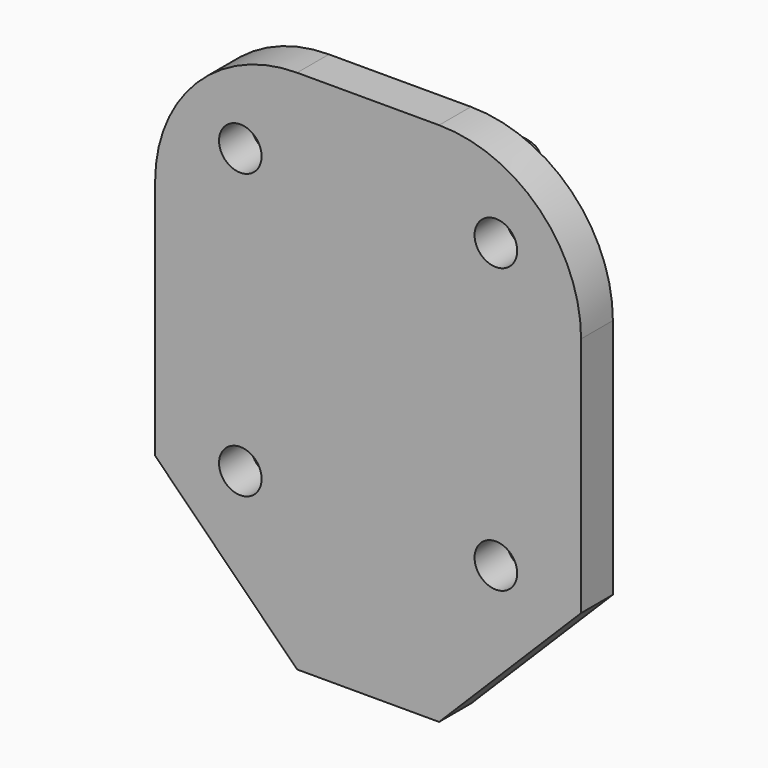
from build123d import *

# Parameters (mm, degrees)
F0_R     = 1.35
F1_DEPTH = 29.5
F2_DEPTH = 37
F3_R     = 3
F4_R     = 10
F5_SIZE  = 10
F6_R     = 1.5
F7_DEPTH = 25


with BuildPart() as f1:
    # F0 (on Top) → F1 (new body)
    with BuildSketch(Plane.XY):
        with BuildLine():
            Line((-1.6, 2.8), (1.6, 2.8))
            Line((1.6, 2.8), (3.0028275917, 7.4646537393))
            ThreePointArc((3.0028275917, 7.4646537393), (0, 5.85035927), (-3.0028275917, 7.4646537393))
            Line((-3.0028275917, 7.4646537393), (-1.6, 2.8))
        make_face()
        with BuildLine():
            ThreePointArc((-3.0028275917, 7.4646537393), (0, 5.85035927), (3.0028275917, 7.4646537393))
            Line((3.0028275917, 7.4646537393), (3.6, 9.45035927))
            ThreePointArc((3.6, 9.45035927), (0, 13.05035927), (-3.6, 9.45035927))
            Line((-3.6, 9.45035927), (-3.0028275917, 7.4646537393))
        make_face()
        with Locations((0, 9.45035927)):
            Circle(F0_R, mode=Mode.SUBTRACT)
        Polygon((-15, 0), (15, 0), (15, 2.8), (1.6, 2.8), (-1.6, 2.8), (-15, 2.8), align=None)
        with BuildLine():
            ThreePointArc((-3.6, 9.45035927), (-3.4474758397, 8.4135804435), (-3.0028275917, 7.4646537393))
            Line((-3.0028275917, 7.4646537393), (-3.6, 9.45035927))
        make_face()
        with BuildLine():
            Line((3.6, 9.45035927), (3.0028275917, 7.4646537393))
            ThreePointArc((3.0028275917, 7.4646537393), (3.4474758397, 8.4135804435), (3.6, 9.45035927))
        make_face()
    extrude(amount=F1_DEPTH)

    # F0 (on Top) → F2 (join)
    with BuildSketch(Plane.XY):
        Polygon((-15, 0), (15, 0), (15, 2.8), (1.6, 2.8), (-1.6, 2.8), (-15, 2.8), align=None)
    extrude(amount=F2_DEPTH)

    # F3
    f3_edges = [f1.edges().sort_by_distance(p)[0] for p in [
        (-1.6, 2.8, 14.75),
        (1.6, 2.8, 14.75),
        (0, 2.8, 29.5),
    ]]
    fillet(f3_edges, radius=F3_R)

    # F4
    f4_edges = [f1.edges().sort_by_distance(p)[0] for p in [
        (-15, 1.4, 37),
        (15, 1.4, 37),
    ]]
    fillet(f4_edges, radius=F4_R)

    # F5
    f5_edges = [f1.edges().sort_by_distance(p)[0] for p in [
        (15, 1.4, 0),
        (-15, 1.4, 0),
    ]]
    chamfer(f5_edges, length=F5_SIZE)

    # F6 (on face) → F7 (cut)
    with BuildSketch(Plane(origin=(0, 2.8, 0), x_dir=(-1, 0, 0), z_dir=(0, 1, 0))):
        with Locations((-9, 31)):
            Circle(F6_R)
        with Locations((9, 31)):
            Circle(F6_R)
        with Locations((-9, 11)):
            Circle(F6_R)
        with Locations((9, 11)):
            Circle(F6_R)
    extrude(amount=-F7_DEPTH, mode=Mode.SUBTRACT)


solid = f1.part
